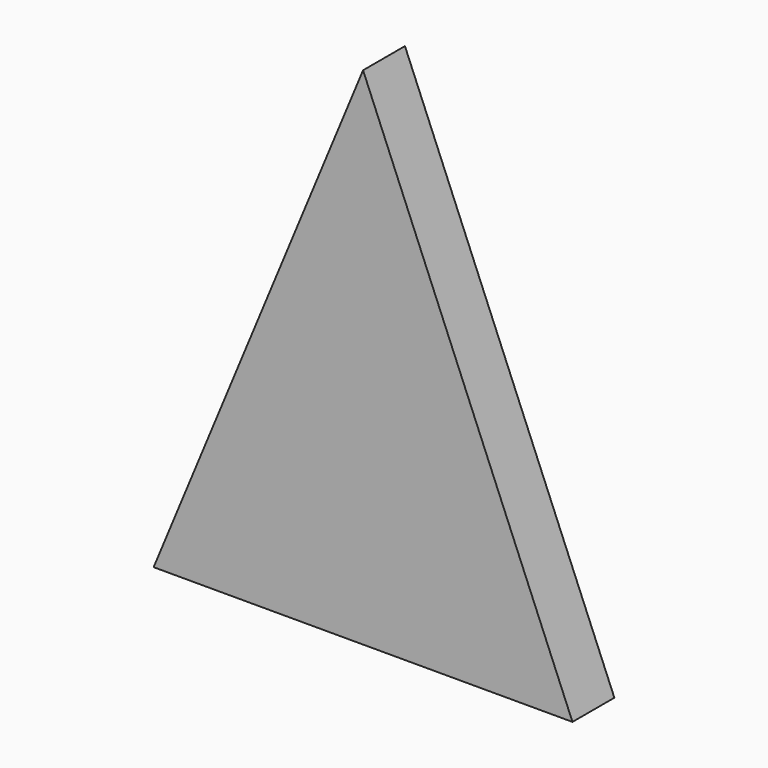
from build123d import *

# Parameters (mm, degrees)
EXTRUDE_DEPTH = 10


with BuildPart() as part:
    # Sketch → Extrude (new body)
    with BuildSketch(Plane.XZ):
        Polygon((-40, 0), (0, 96.568542), (40, 0), align=None)
    extrude(amount=EXTRUDE_DEPTH)


solid = part.part
